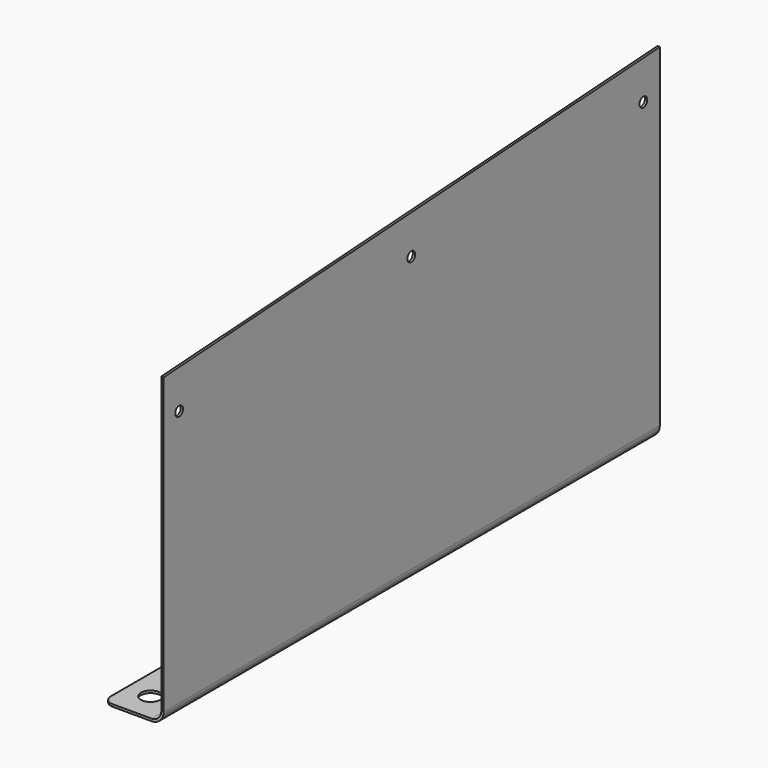
from build123d import *

# Parameters (mm, degrees)
F1_DEPTH = 320
F2_R     = 5
F3_DEPTH = 1.2
F4_R     = 5
F6_DEPTH = 1.2
F7_R     = 2.5
F8_DEPTH = 1.2


with BuildPart() as f1:
    # F0 (on Front) → F1 (new body)
    with BuildSketch(Plane.XZ):
        with BuildLine():
            Line((1.2, 0), (0, 0))
            Line((0, 0), (0, -207))
            ThreePointArc((0, -207), (-1.464466, -210.535534), (-5, -212))
            Line((-5, -212), (-30, -212))
            Line((-30, -212), (-30, -213.2))
            Line((-30, -213.2), (-5, -213.2))
            ThreePointArc((-5, -213.2), (-0.615938, -211.384062), (1.2, -207))
            Line((1.2, -207), (1.2, 0))
        make_face()
    extrude(amount=-F1_DEPTH)

    # F2 (on face) → F3 (cut, through all)
    with BuildSketch(Plane.XY.offset(-212)):
        with Locations((-17.5, 305)):
            Circle(F2_R)
        with Locations((-17.5, 15)):
            Circle(F2_R)
    extrude(amount=-F3_DEPTH, mode=Mode.SUBTRACT)

    # F4
    f4_edges = [f1.edges().sort_by_distance(p)[0] for p in [
        (-30, 320, -212.6),
        (-30, 0, -212.6),
    ]]
    fillet(f4_edges, radius=F4_R)

    # F5 (on face) → F6 (cut, through all)
    with BuildSketch(Plane(origin=(0, 0, 0), x_dir=(0, -1, 0), z_dir=(-1, 0, 0))):
        Polygon((0, 0), (-320, 0), (-320, -35), (0, -55), align=None)
    extrude(amount=-F6_DEPTH, mode=Mode.SUBTRACT)

    # F7 (on face) → F8 (cut, through all)
    with BuildSketch(Plane.YZ.offset(1.2)):
        with Locations((10, -74.414024)):
            Circle(F7_R)
        with Locations((159.707887, -65.057282)):
            Circle(F7_R)
        with Locations((309.415774, -55.700539)):
            Circle(F7_R)
    extrude(amount=-F8_DEPTH, mode=Mode.SUBTRACT)


solid = f1.part
